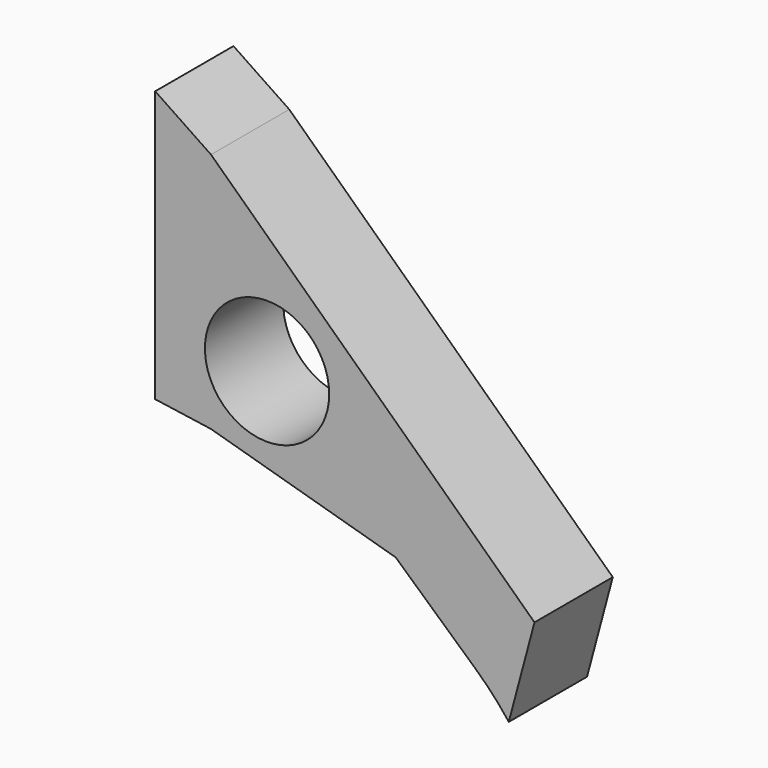
from build123d import *

# Parameters (mm, degrees)
F0_R     = 3.175
F1_DEPTH = 5


with BuildPart() as f1:
    # F0 (on Front) → F1 (new body)
    with BuildSketch(Plane.XZ):
        with BuildLine():
            ThreePointArc((-13.347524, 37.588448), (-12.461887, 36.712299), (-11.659195, 35.759579))
            Line((-11.659195, 35.759579), (-10.344394, 40.666482))
            Line((-10.344394, 40.666482), (-26.876474, 56.333769))
            Line((-26.876474, 56.333769), (-29.725796, 58.255821))
            Line((-29.725796, 58.255821), (-29.725796, 44.399414))
            Line((-29.725796, 44.399414), (-26.876474, 43.988798))
            Line((-26.876474, 43.988798), (-17.436201, 41.282147))
            Line((-17.436201, 41.282147), (-13.347524, 37.588448))
        make_face()
        with Locations((-24.010796, 47.518508)):
            Circle(F0_R, mode=Mode.SUBTRACT)
    extrude(amount=F1_DEPTH)


solid = f1.part
